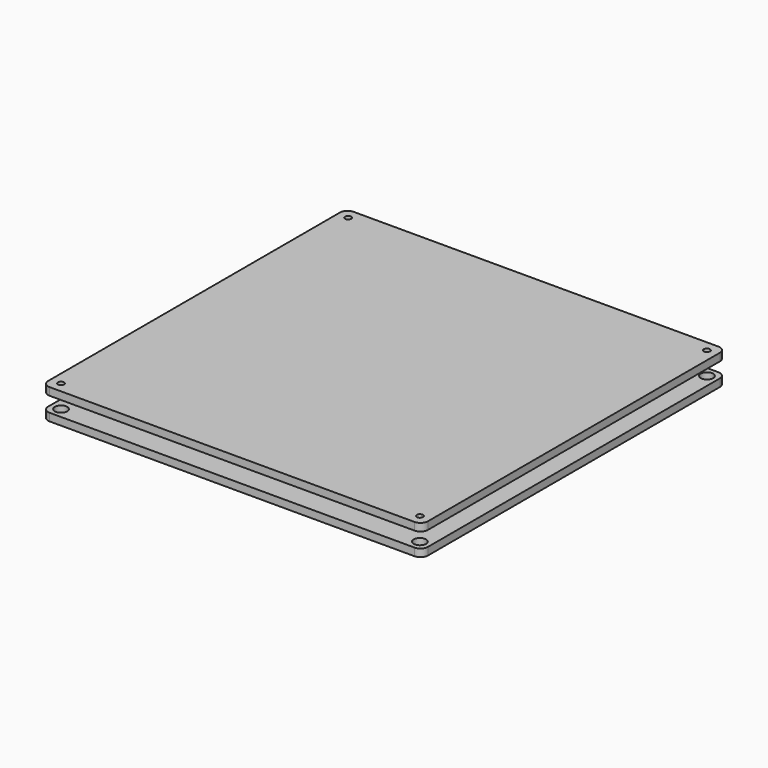
from build123d import *

# Parameters (mm, degrees)
F0_W     = 254
F0_H     = 254
F0_R     = 4.125
F1_DEPTH = 5.1
F3_W     = 254
F3_H     = 254
F3_R     = 2.05
F4_DEPTH = 5.1
F5_R     = 5
F6_R     = 5


with BuildPart() as f1:
    # F0 (on Top) → F1 (new body)
    with BuildSketch(Plane.XY):
        Rectangle(F0_W, F0_H)
        with Locations((-120, -120)):
            Circle(F0_R, mode=Mode.SUBTRACT)
        with Locations((120, -120)):
            Circle(F0_R, mode=Mode.SUBTRACT)
        with Locations((-120, 120)):
            Circle(F0_R, mode=Mode.SUBTRACT)
        with Locations((120, 120)):
            Circle(F0_R, mode=Mode.SUBTRACT)
    extrude(amount=F1_DEPTH)

    # F5
    f5_edges = [f1.edges().sort_by_distance(p)[0] for p in [
        (-127, 127, 2.55),
        (127, 127, 2.55),
        (127, -127, 2.55),
        (-127, -127, 2.55),
    ]]
    fillet(f5_edges, radius=F5_R)


with BuildPart() as f4:
    # F3 (on offset) → F4 (new body)
    with BuildSketch(Plane.XY.offset(15.1)):
        Rectangle(F3_W, F3_H)
        with Locations((-120, -120)):
            Circle(F3_R, mode=Mode.SUBTRACT)
        with Locations((120, -120)):
            Circle(F3_R, mode=Mode.SUBTRACT)
        with Locations((-120, 120)):
            Circle(F3_R, mode=Mode.SUBTRACT)
        with Locations((120, 120)):
            Circle(F3_R, mode=Mode.SUBTRACT)
    extrude(amount=F4_DEPTH)

    # F6
    f6_edges = [f4.edges().sort_by_distance(p)[0] for p in [
        (-127, -127, 17.65),
        (127, -127, 17.65),
        (127, 127, 17.65),
        (-127, 127, 17.65),
    ]]
    fillet(f6_edges, radius=F6_R)


solid = Compound([f1.part, f4.part])
